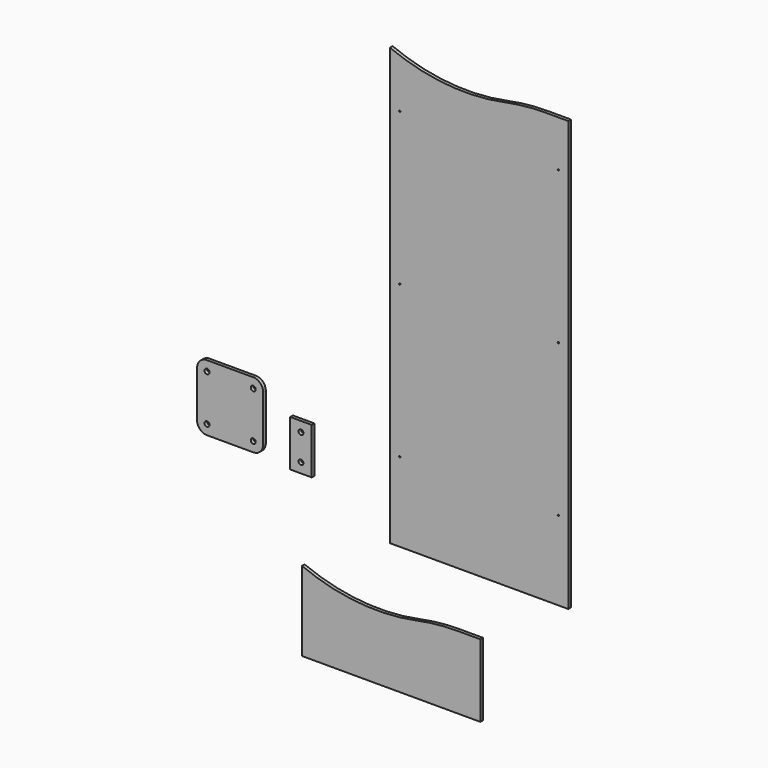
from build123d import *

# Parameters (mm, degrees)
F1_DEPTH  = 12.7
F2_R      = 2.5527
F3_DEPTH  = 12.701
F4_W      = 254
F4_H      = 254
F4_R      = 9.525
F5_DEPTH  = 12.7
F6_R      = 38.1
F7_W      = 82.55
F7_H      = 177.8
F8_DEPTH  = 12.7
F9_R      = 9.525
F10_DEPTH = 12.701
F12_DEPTH = 12.7


with BuildPart() as f1:
    # F0 (on Front) → F1 (new body)
    with BuildSketch(Plane.XZ):
        with BuildLine():
            Line((0, 1651), (0, 0))
            Line((0, 0), (685.8, 0))
            Line((685.8, 0), (685.8, 1651))
            Line((685.8, 1651), (596.9, 1651))
            ThreePointArc((596.9, 1651), (519.482487, 1647.057075), (442.866159, 1635.269104))
            ThreePointArc((442.866159, 1635.269104), (218.36534, 1622.803469), (0, 1676.4))
            Line((0, 1676.4), (0, 1651))
        make_face()
    extrude(amount=F1_DEPTH)

    # F2 (on Front) → F3 (cut, through all)
    with BuildSketch(Plane.XZ):
        with Locations((38.1, 1473.2)):
            Circle(F2_R)
        with Locations((38.1, 889)):
            Circle(F2_R)
        with Locations((38.1, 304.8)):
            Circle(F2_R)
        with Locations((647.7, 1473.2)):
            Circle(F2_R)
        with Locations((647.7, 889)):
            Circle(F2_R)
        with Locations((647.7, 304.8)):
            Circle(F2_R)
    extrude(amount=F3_DEPTH, mode=Mode.SUBTRACT)


with BuildPart() as f5:
    # F4 (on Front) → F5 (new body)
    with BuildSketch(Plane.XZ):
        with Locations((-613.792803, 263.472061)):
            Rectangle(F4_W, F4_H)
        with Locations((-702.692803, 174.572061)):
            Circle(F4_R, mode=Mode.SUBTRACT)
        with Locations((-524.892803, 174.572061)):
            Circle(F4_R, mode=Mode.SUBTRACT)
        with Locations((-702.692803, 352.372061)):
            Circle(F4_R, mode=Mode.SUBTRACT)
        with Locations((-524.892803, 352.372061)):
            Circle(F4_R, mode=Mode.SUBTRACT)
    extrude(amount=F5_DEPTH)

    # F6
    f6_edges = [f5.edges().sort_by_distance(p)[0] for p in [
        (-486.792803, -6.35, 390.472061),
        (-740.792803, -6.35, 390.472061),
        (-486.792803, -6.35, 136.472061),
        (-740.792803, -6.35, 136.472061),
    ]]
    fillet(f6_edges, radius=F6_R)


with BuildPart() as f8:
    # F7 (on Front) → F8 (new body)
    with BuildSketch(Plane.XZ):
        with Locations((-341.505891, 213.472515)):
            Rectangle(F7_W, F7_H)
    extrude(amount=F8_DEPTH)

    # F9 (on face) → F10 (cut, through all)
    with BuildSketch(Plane.XZ.offset(12.7)):
        with Locations((-341.505891, 264.272515)):
            Circle(F9_R)
        with Locations((-341.505891, 162.672515)):
            Circle(F9_R)
    extrude(amount=-F10_DEPTH, mode=Mode.SUBTRACT)


with BuildPart() as f12:
    # F11 (on Front) → F12 (new body)
    with BuildSketch(Plane.XZ):
        with BuildLine():
            Line((-337.649525, -186.89242), (-337.649525, -491.69242))
            Line((-337.649525, -491.69242), (348.150475, -491.69242))
            Line((348.150475, -491.69242), (348.150475, -212.29242))
            Line((348.150475, -212.29242), (259.250475, -212.29242))
            ThreePointArc((259.250475, -212.29242), (181.832962, -216.235345), (105.216634, -228.023316))
            ThreePointArc((105.216634, -228.023316), (-119.284185, -240.488952), (-337.649525, -186.89242))
        make_face()
    extrude(amount=F12_DEPTH)


solid = Compound([f1.part, f5.part, f8.part, f12.part])
